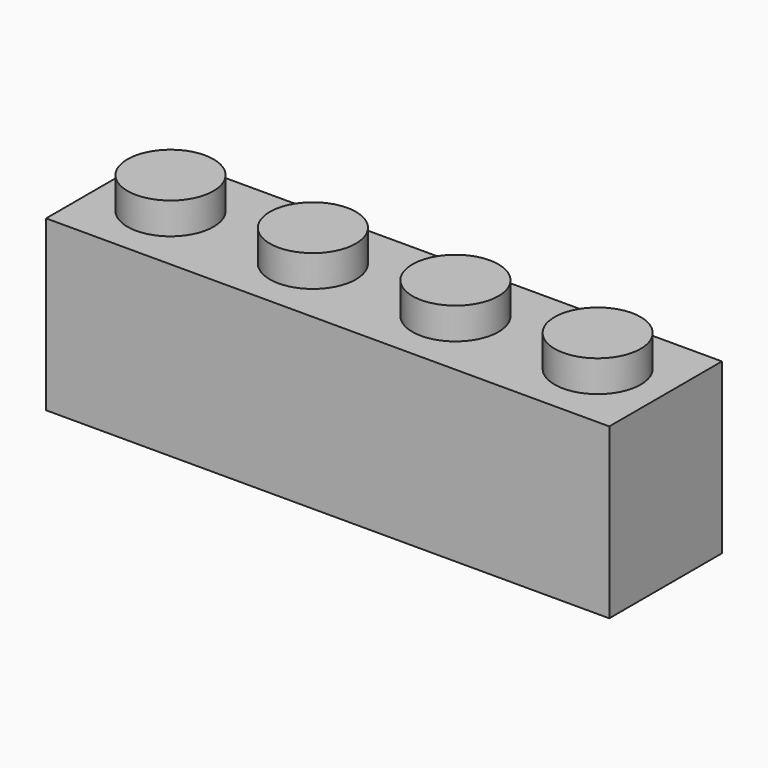
from build123d import *

# Parameters (mm, degrees)
F0_W     = 31.75
F0_H     = 7.9375
F1_DEPTH = 9.525
F2_R     = 2.4257
F3_DEPTH = 1.778
F5_W     = 29.5656
F5_H     = 5.7531
F6_DEPTH = 8.4328


with BuildPart() as f1:
    # F0 (on Top) → F1 (new body)
    with BuildSketch(Plane.XY):
        with Locations((-14.812947, 15.498804)):
            Rectangle(F0_W, F0_H)
    extrude(amount=F1_DEPTH)

    # F2 (on face) → F3 (join)
    with BuildSketch(Plane.XY.offset(9.525)):
        with Locations((-26.852553, 15.505154)):
            Circle(F2_R)
        with Locations((-18.826153, 15.505154)):
            Circle(F2_R)
        with Locations((-10.799753, 15.517854)):
            Circle(F2_R)
        with Locations((-2.773347, 15.505154)):
            Circle(F2_R)
    extrude(amount=F3_DEPTH)

    # F5 (on face) → F6 (cut)
    with BuildSketch(Plane(origin=(0, 0, 0), x_dir=(1, 0, 0), z_dir=(0, 0, -1))):
        with Locations((-14.812947, -15.498804)):
            Rectangle(F5_W, F5_H)
    extrude(amount=-F6_DEPTH, mode=Mode.SUBTRACT)


solid = f1.part
